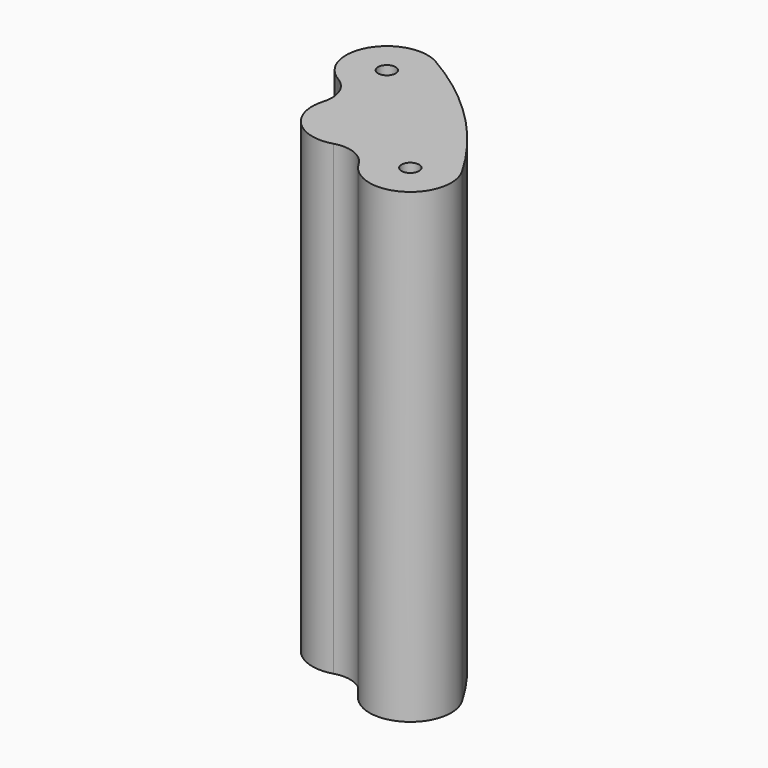
from build123d import *

# Parameters (mm, degrees)
SKETCH020_R             = 1.5
PAD013_DEPTH            = 15
PAD014_DEPTH            = 80
PAD015_DEPTH            = 80
SKETCH023_R             = 1.5
POCKET005_DEPTH         = 15
BODY003_PLACEMENT_ANGLE = 45


with BuildPart() as part:
    # Sketch020 → Pad013 (new body)
    with BuildSketch(Plane.XY):
        with BuildLine():
            ThreePointArc((59.887401, -16.046781), (62, 0), (59.887401, 16.046781))
            ThreePointArc((59.887401, 16.046781), (51.314187, 20.996528), (46.36444, 12.423314))
            ThreePointArc((43.66723, 6.1557), (46.103592, 8.821401), (46.36444, 12.423314))
            ThreePointArc((43.66723, 6.1557), (40, 0), (43.66723, -6.1557))
            ThreePointArc((46.36444, -12.423314), (46.103592, -8.821401), (43.66723, -6.1557))
            ThreePointArc((46.36444, -12.423314), (51.314187, -20.996528), (59.887401, -16.046781))
        make_face()
        with Locations((53.12592, 14.235047)):
            Circle(SKETCH020_R, mode=Mode.SUBTRACT)
        with Locations((53.12592, -14.235047)):
            Circle(SKETCH020_R, mode=Mode.SUBTRACT)
    extrude(amount=-PAD013_DEPTH)

    # Sketch021 → Pad014 (join)
    with BuildSketch(Plane.XY):
        with BuildLine():
            ThreePointArc((59.887401, -16.046781), (62, 0), (59.887401, 16.046781))
            ThreePointArc((59.887401, 16.046781), (51.314187, 20.996528), (46.36444, 12.423314))
            ThreePointArc((43.66723, 6.1557), (46.103592, 8.821401), (46.36444, 12.423314))
            ThreePointArc((43.66723, 6.1557), (40, 0), (43.66723, -6.1557))
            ThreePointArc((46.36444, -12.423314), (46.103592, -8.821401), (43.66723, -6.1557))
            ThreePointArc((46.36444, -12.423314), (51.314187, -20.996528), (59.887401, -16.046781))
        make_face()
        with BuildLine():
            ThreePointArc((57.95555, 15.529143), (51.831825, 19.064677), (48.296291, 12.940952))
            ThreePointArc((44.61945, 4.396929), (47.940703, 8.030817), (48.296291, 12.940952))
            ThreePointArc((44.61945, 4.396929), (42, 0), (44.61945, -4.396929))
            ThreePointArc((48.296291, -12.940952), (47.940703, -8.030817), (44.61945, -4.396929))
            ThreePointArc((48.296291, -12.940952), (51.831825, -19.064677), (57.95555, -15.529143))
            ThreePointArc((57.95555, -15.529143), (60, 0), (57.95555, 15.529143))
        make_face(mode=Mode.SUBTRACT)
    extrude(amount=-PAD014_DEPTH)

    # Sketch022 → Pad015 (join)
    with BuildSketch(Plane.XY):
        with BuildLine():
            ThreePointArc((55, -6), (61, 0), (55, 6))
            Line((55, 6), (47, 6))
            ThreePointArc((47, 6), (41, 0), (47, -6))
            Line((55, -6), (47, -6))
        make_face()
    extrude(amount=-PAD015_DEPTH)

    # Sketch023 → Pocket005 (cut)
    with BuildSketch(Plane.XY.offset(-80)):
        with Locations((47, 0)):
            Circle(SKETCH023_R)
        with Locations((55, 0)):
            Circle(SKETCH023_R)
    extrude(amount=POCKET005_DEPTH, mode=Mode.SUBTRACT)


with BuildPart() as part_1:
    # Body003 placement: moved
    add(part.part.moved(Location((0, 0, 25))).rotate(Axis((0, 0, 25), (0, 0, 1)), BODY003_PLACEMENT_ANGLE))


solid = part_1.part
